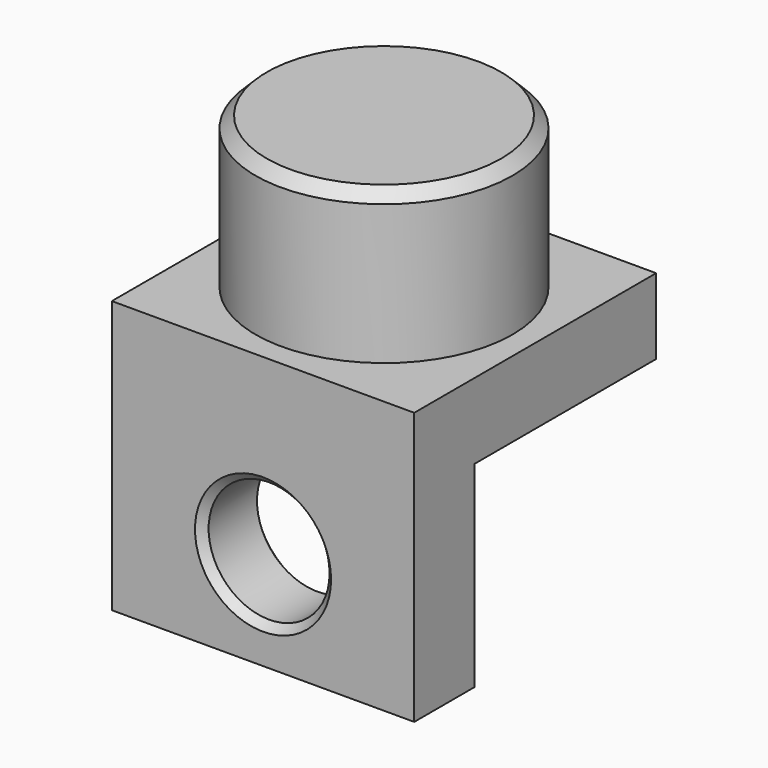
from build123d import *

# Parameters (mm, degrees)
F1_DEPTH = 203.2
F2_R     = 40.64
F3_DEPTH = 635
F4_R     = 86.36
F5_DEPTH = 101.6
F6_SIZE2 = 7.62
F6_SIZE  = 7.62
F7_SIZE2 = 5.08
F7_SIZE  = 5.08


with BuildPart() as f1:
    # F0 (on Right) → F1 (new body)
    with BuildSketch(Plane.YZ):
        Polygon((-101.3922498733, -72.2344086301), (-50.5922498733, -72.2344086301), (-50.5922498733, 59.8455913699), (101.8077501267, 59.8455913699), (101.8077501267, 110.6455913699), (-101.3922498733, 110.6455913699), align=None)
    extrude(amount=F1_DEPTH)

    # F2 (on face) → F3 (cut)
    with BuildSketch(Plane.XZ.offset(101.3922498733)):
        with Locations((101.6, -6.1944086301)):
            Circle(F2_R)
    extrude(amount=-F3_DEPTH, mode=Mode.SUBTRACT)

    # F4 (on face) → F5 (join)
    with BuildSketch(Plane.XY.offset(110.6455913699)):
        with Locations((101.6, 0.2077501267)):
            Circle(F4_R)
    extrude(amount=F5_DEPTH)

    # F6
    f6_edges = [f1.edges().sort_by_distance(p)[0] for p in [
        (15.24, 0.20775, 212.245591),
    ]]
    chamfer(f6_edges, length=F6_SIZE, length2=F6_SIZE2)

    # F7
    f7_edges = [f1.edges().sort_by_distance(p)[0] for p in [
        (60.96, -101.39225, -6.194409),
        (60.96, -50.59225, -6.194409),
    ]]
    chamfer(f7_edges, length=F7_SIZE, length2=F7_SIZE2)


solid = f1.part
